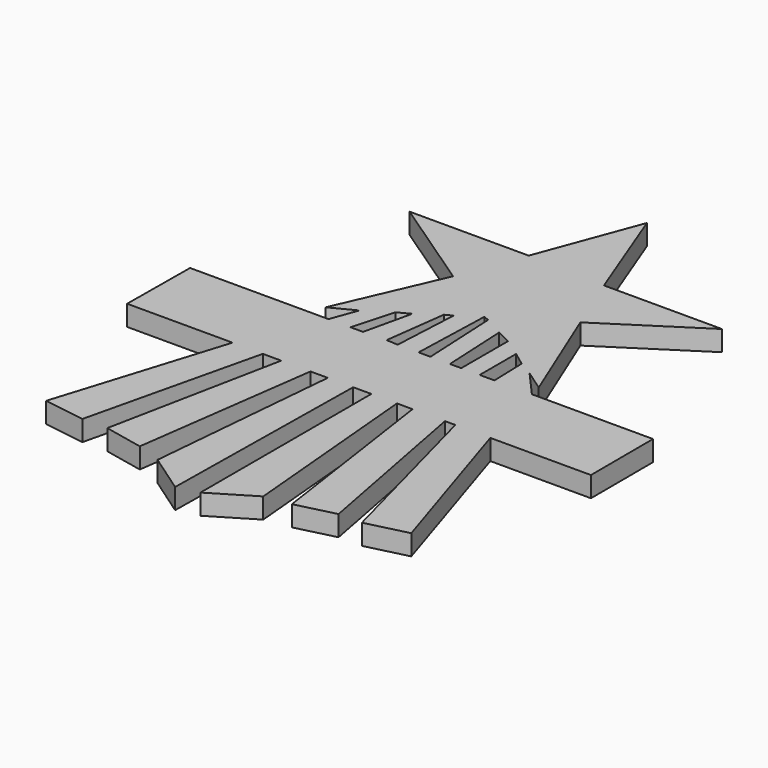
from build123d import *

# Parameters (mm, degrees)
F1_DEPTH = 3


with BuildPart() as f1:
    # F0 (on Top) → F1 (new body)
    with BuildSketch(Plane.XY):
        Polygon((-112.955246, -3.54154), (-118.796036, 11.650806), (-124.313387, -3.151842), (-141.807427, -3.151842), (-127.879479, -12.571709), (-134.473386, -27.710782), (-130.965268, -25.908628), (-132.387559, -29.796608), (-152.707559, -29.796608), (-152.799174, -41.2316), (-137.323676, -41.2316), (-144.994139, -65.857825), (-138.929132, -66.758923), (-132.882882, -41.2316), (-130.178067, -41.231918), (-135.287017, -66.759351), (-129.549282, -67.969184), (-125.885266, -41.2316), (-123.340191, -41.2319), (-125.867149, -69.316173), (-120.080659, -73.319617), (-119.616715, -41.2316), (-116.949647, -41.231914), (-116.949647, -72.583164), (-110.730788, -68.840947), (-113.186582, -41.2316), (-110.90286, -41.2316), (-106.963308, -68.292474), (-101.254005, -66.865148), (-106.145109, -41.2316), (-104.622629, -41.2316), (-97.828425, -66.865148), (-91.776701, -65.36576), (-99.484258, -41.2316), (-84.710565, -41.2319), (-84.749944, -29.796608), (-102.529944, -29.796608), (-105.977231, -25.908628), (-102.963967, -27.996385), (-109.339354, -12.390961), (-95.637031, -3.54154), align=None)
        Polygon((-129.171015, -29.796608), (-127.458225, -23.673594), (-125.715271, -22.778221), (-127.315492, -29.796608), align=None, mode=Mode.SUBTRACT)
        Polygon((-123.927363, -29.709139), (-122.748051, -20.676211), (-121.729279, -20.152858), (-122.224698, -29.796608), align=None, mode=Mode.SUBTRACT)
        Polygon((-119.167684, -29.796403), (-118.796036, -18.202179), (-117.97959, -18.506491), (-117.419369, -29.796608), align=None, mode=Mode.SUBTRACT)
        Polygon((-114.562619, -29.796413), (-115.040493, -20.152858), (-112.898951, -21.204401), (-112.899961, -29.796608), align=None, mode=Mode.SUBTRACT)
        Polygon((-110.19575, -29.796608), (-110.194964, -23.110219), (-108.188545, -24.591885), (-108.028096, -29.796608), align=None, mode=Mode.SUBTRACT)
        Polygon((-112.955246, -3.54154), (-118.796036, 11.650806), (-124.313387, -3.151842), (-141.807427, -3.151842), (-127.879479, -12.571709), (-134.473386, -27.710782), (-130.965268, -25.908628), (-132.387559, -29.796608), (-152.707559, -29.796608), (-152.799174, -41.2316), (-137.323676, -41.2316), (-144.994139, -65.857825), (-138.929132, -66.758923), (-132.882882, -41.2316), (-130.178067, -41.231918), (-135.287017, -66.759351), (-129.549282, -67.969184), (-125.885266, -41.2316), (-123.340191, -41.2319), (-125.867149, -69.316173), (-120.080659, -73.319617), (-119.616715, -41.2316), (-116.949647, -41.231914), (-116.949647, -72.583164), (-110.730788, -68.840947), (-113.186582, -41.2316), (-110.90286, -41.2316), (-106.963308, -68.292474), (-101.254005, -66.865148), (-106.145109, -41.2316), (-104.622629, -41.2316), (-97.828425, -66.865148), (-91.776701, -65.36576), (-99.484258, -41.2316), (-84.710565, -41.2319), (-84.749944, -29.796608), (-102.529944, -29.796608), (-105.977231, -25.908628), (-102.963967, -27.996385), (-109.339354, -12.390961), (-95.637031, -3.54154), align=None)
        Polygon((-129.171015, -29.796608), (-127.458225, -23.673594), (-125.715271, -22.778221), (-127.315492, -29.796608), align=None, mode=Mode.SUBTRACT)
        Polygon((-123.927363, -29.709139), (-122.748051, -20.676211), (-121.729279, -20.152858), (-122.224698, -29.796608), align=None, mode=Mode.SUBTRACT)
        Polygon((-119.167684, -29.796403), (-118.796036, -18.202179), (-117.97959, -18.506491), (-117.419369, -29.796608), align=None, mode=Mode.SUBTRACT)
        Polygon((-114.562619, -29.796413), (-115.040493, -20.152858), (-112.898951, -21.204401), (-112.899961, -29.796608), align=None, mode=Mode.SUBTRACT)
        Polygon((-110.19575, -29.796608), (-110.194964, -23.110219), (-108.188545, -24.591885), (-108.028096, -29.796608), align=None, mode=Mode.SUBTRACT)
    extrude(amount=F1_DEPTH)


solid = f1.part
